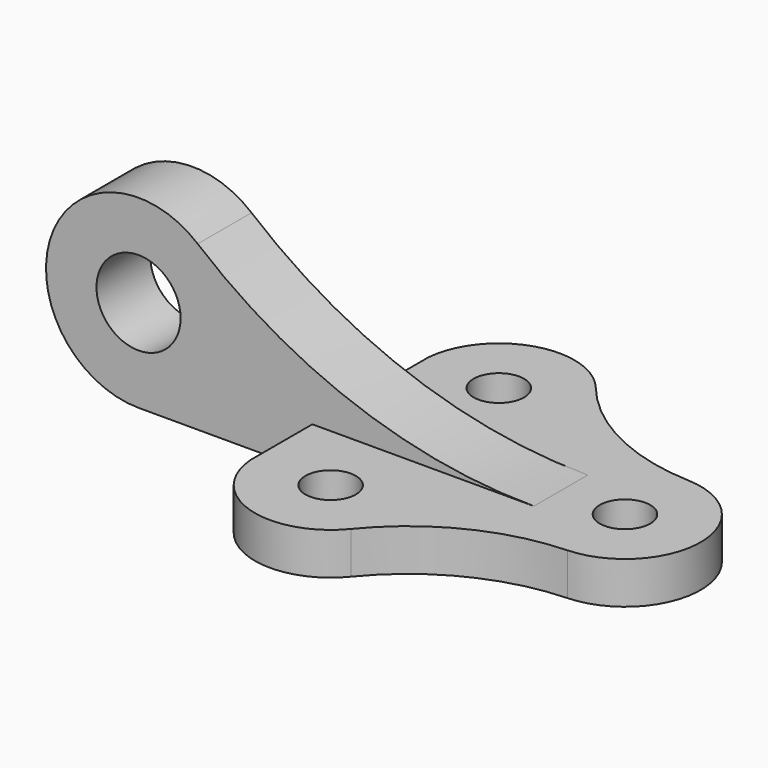
from build123d import *

# Parameters (mm, degrees)
F0_R     = 6
F1_DEPTH = 10
F2_R     = 10
F3_DEPTH = 8


with BuildPart() as f1:
    # F0 (on Top) → F1 (new body)
    with BuildSketch(Plane.XY):
        with BuildLine():
            ThreePointArc((-2.287583, -36.367918), (14.118454, -23.224109), (34.477123, -17.985565))
            ThreePointArc((34.477123, -17.985565), (51.756399, 0), (34.477123, 17.985565))
            ThreePointArc((34.477123, 17.985565), (14.118454, 23.224109), (-2.287583, 36.367918))
            ThreePointArc((-2.287583, 36.367918), (-21.61854, 42.178767), (-34.190148, 26.386157))
            Line((-34.190148, 26.386157), (-34.190148, 23.613843))
            Line((-34.190148, 23.613843), (-34.190148, -23.613843))
            Line((-34.190148, -23.613843), (-34.190148, -26.386157))
            ThreePointArc((-34.190148, -26.386157), (-21.61854, -42.178767), (-2.287583, -36.367918))
        make_face()
        with Locations((-16.243601, -25)):
            Circle(F0_R, mode=Mode.SUBTRACT)
        with Locations((33.756399, 0)):
            Circle(F0_R, mode=Mode.SUBTRACT)
        with Locations((-16.243601, 25)):
            Circle(F0_R, mode=Mode.SUBTRACT)
    extrude(amount=F1_DEPTH)

    # F2 (on Front) → F3 (join, symmetric)
    with BuildSketch(Plane.XZ):
        with BuildLine():
            Line((-75.522877, 0), (18.498397, 0))
            Line((18.498397, 0), (18.498397, 10))
            ThreePointArc((18.498397, 10), (-24.010105, 17.449895), (-61.451666, 38.911565))
            ThreePointArc((-61.451666, 38.911565), (-96.211695, 29.481496), (-75.522877, 0))
        make_face()
        with Locations((-75.522877, 22)):
            Circle(F2_R, mode=Mode.SUBTRACT)
    extrude(amount=F3_DEPTH, both=True)


solid = f1.part
